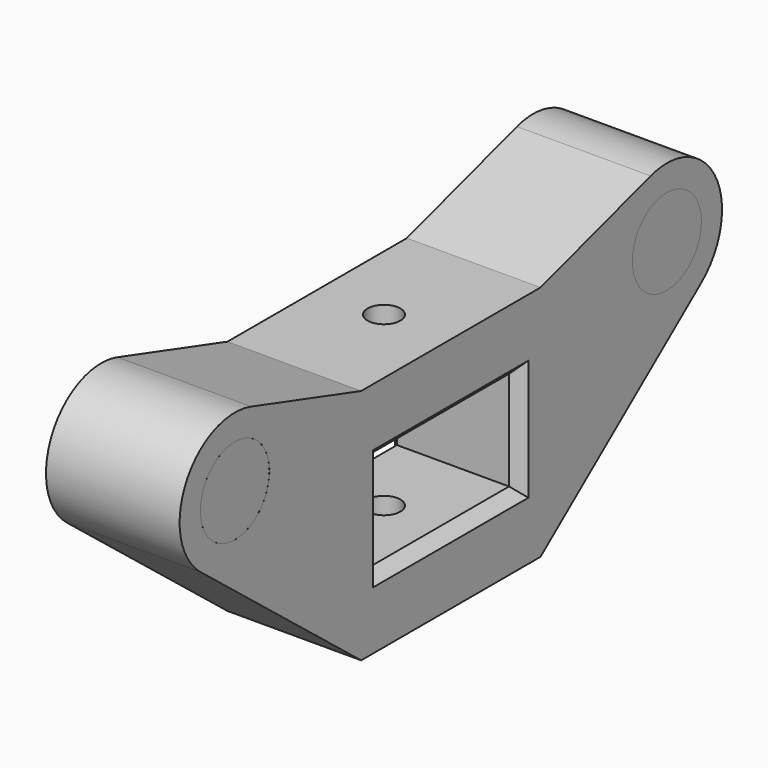
from build123d import *

# Parameters (mm, degrees)
SKETCH019_R             = 4
SKETCH019_W             = 16
SKETCH019_H             = 9.2
PAD006_DEPTH            = 6.2
CHAMFER_SIZE            = 1
SKETCH_R                = 1.525
POCKET_DEPTH            = 11.001
POCKET_DEPTH_BACK       = -15.201
SKETCH020_R             = 4
PAD_DEPTH               = 1.2
SKETCH021_R             = 4
PAD007_DEPTH            = 1.2
BODY003_PLACEMENT_ANGLE = 180


with BuildPart() as rodholder:
    # Sketch019 → Pad006 (new body, symmetric)
    with BuildSketch(Plane(origin=(0, 0, 0), x_dir=(0, -1, 0), z_dir=(-1, 0, 0))):
        with BuildLine():
            ThreePointArc((-23.172921, 14.918544), (-30.714, 11.779782), (-29.028997, 3.787258))
            Line((-29.028997, 3.787258), (-10.4, -11))
            Line((-10.4, -11), (10.4, -11))
            Line((10.4, -11), (29.028997, 3.787258))
            ThreePointArc((29.028997, 3.787258), (30.714, 11.779782), (23.172921, 14.918544))
            Line((10.4, 11), (23.172921, 14.918544))
            Line((-10.4, 11), (10.4, 11))
            Line((-23.172921, 14.918544), (-10.4, 11))
        make_face()
        with Locations((25.05, 8.8)):
            Circle(SKETCH019_R, mode=Mode.SUBTRACT)
        with Locations((-25.05, 8.8)):
            Circle(SKETCH019_R, mode=Mode.SUBTRACT)
        Rectangle(SKETCH019_W, SKETCH019_H, mode=Mode.SUBTRACT)
    extrude(amount=PAD006_DEPTH, both=True)

    # Chamfer
    chamfer_edges = [rodholder.edges().sort_by_distance(p)[0] for p in [
        (-6.2, 0, 4.6),
        (-6.2, 8, 0),
        (-6.2, -8, 0),
        (-6.2, 0, -4.6),
        (6.2, 0, 4.6),
        (6.2, -8, 0),
        (6.2, 0, -4.6),
        (6.2, 8, 0),
    ]]
    chamfer(chamfer_edges, length=CHAMFER_SIZE)

    # Sketch → Pocket (cut, two sides)
    with BuildSketch(Plane.XY) as pocket_sk:
        Circle(SKETCH_R)
    extrude(amount=-POCKET_DEPTH, mode=Mode.SUBTRACT)
    extrude(pocket_sk.sketch, amount=-POCKET_DEPTH_BACK, mode=Mode.SUBTRACT)


with BuildPart() as rodcapleft:
    # Sketch020 → Pad (new body, symmetric)
    with BuildSketch(Plane.YZ):
        with Locations((-25.05, 8.8)):
            Circle(SKETCH020_R)
    extrude(amount=PAD_DEPTH, both=True)


with BuildPart() as rodcapleft_1:
    # Body placement: moved
    add(rodcapleft.part.moved(Location((5, 0, 0))))


with BuildPart() as rodcapright:
    # Sketch021 → Pad007 (new body, symmetric)
    with BuildSketch(Plane.YZ):
        with Locations((-25.05, 8.8)):
            Circle(SKETCH021_R)
    extrude(amount=PAD007_DEPTH, both=True)


with BuildPart() as rodcapright_1:
    # Body003 placement: moved
    add(rodcapright.part.moved(Location((5, 0, 0))).rotate(Axis((5, 0, 0), (0, 0, 1)), BODY003_PLACEMENT_ANGLE))


solid = Compound([rodholder.part, rodcapleft_1.part, rodcapright_1.part])
